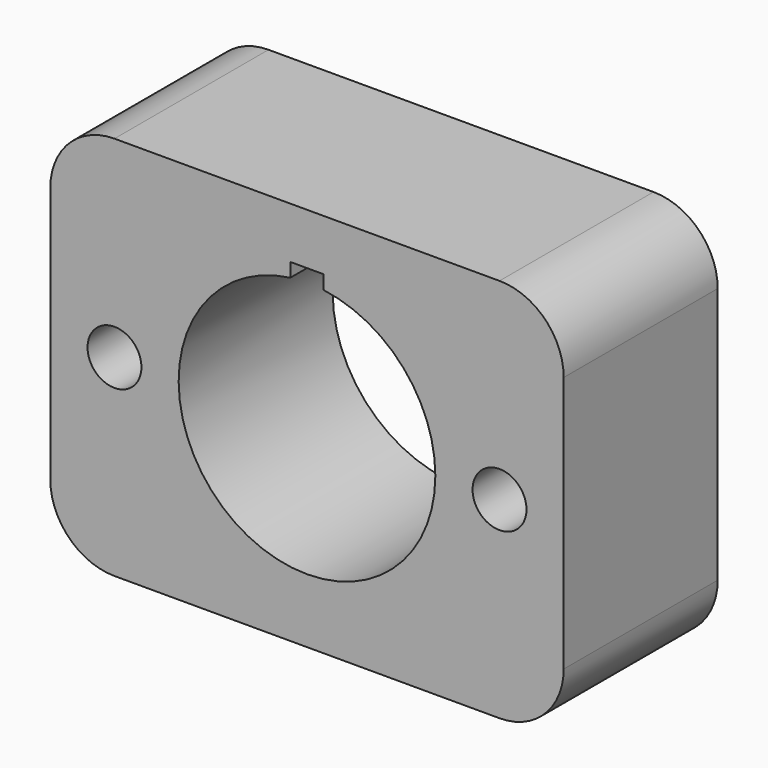
from build123d import *

# Parameters (mm, degrees)
F0_R     = 2.667
F1_DEPTH = 19.05
F2_DEPTH = 19.05


with BuildPart() as f1:
    # F0 (on Front) → F1 (new body)
    with BuildSketch(Plane.XZ):
        with BuildLine():
            Line((19.05, 19.05), (-19.05, 19.05))
            ThreePointArc((-19.05, 19.05), (-23.540128, 17.190128), (-25.4, 12.7))
            Line((-25.4, 12.7), (-25.4, -12.7))
            ThreePointArc((-25.4, -12.7), (-23.540128, -17.190128), (-19.05, -19.05))
            Line((-19.05, -19.05), (19.05, -19.05))
            ThreePointArc((19.05, -19.05), (23.540128, -17.190128), (25.4, -12.7))
            Line((25.4, -12.7), (25.4, 12.7))
            ThreePointArc((25.4, 12.7), (23.540128, 17.190128), (19.05, 19.05))
        make_face()
        with Locations((-19.05, 0)):
            Circle(F0_R, mode=Mode.SUBTRACT)
        with BuildLine():
            ThreePointArc((1.651, 12.592228), (9.546143, 8.376225), (12.7, 0))
            ThreePointArc((12.7, 0), (-8.376225, -9.546143), (-1.651, 12.592228))
            Line((-1.651, 12.592228), (-1.651, 13.97))
            Line((-1.651, 13.97), (1.651, 13.97))
            Line((1.651, 13.97), (1.651, 12.592228))
        make_face(mode=Mode.SUBTRACT)
        with Locations((19.05, 0)):
            Circle(F0_R, mode=Mode.SUBTRACT)
    extrude(amount=F1_DEPTH)

    # F0 (on Front) → F2 (join)
    with BuildSketch(Plane.XZ):
        with BuildLine():
            Line((19.05, 19.05), (-19.05, 19.05))
            ThreePointArc((-19.05, 19.05), (-23.540128, 17.190128), (-25.4, 12.7))
            Line((-25.4, 12.7), (-25.4, -12.7))
            ThreePointArc((-25.4, -12.7), (-23.540128, -17.190128), (-19.05, -19.05))
            Line((-19.05, -19.05), (19.05, -19.05))
            ThreePointArc((19.05, -19.05), (23.540128, -17.190128), (25.4, -12.7))
            Line((25.4, -12.7), (25.4, 12.7))
            ThreePointArc((25.4, 12.7), (23.540128, 17.190128), (19.05, 19.05))
        make_face()
        with Locations((-19.05, 0)):
            Circle(F0_R, mode=Mode.SUBTRACT)
        with BuildLine():
            ThreePointArc((1.651, 12.592228), (9.546143, 8.376225), (12.7, 0))
            ThreePointArc((12.7, 0), (-8.376225, -9.546143), (-1.651, 12.592228))
            Line((-1.651, 12.592228), (-1.651, 13.97))
            Line((-1.651, 13.97), (1.651, 13.97))
            Line((1.651, 13.97), (1.651, 12.592228))
        make_face(mode=Mode.SUBTRACT)
        with Locations((19.05, 0)):
            Circle(F0_R, mode=Mode.SUBTRACT)
    extrude(amount=F2_DEPTH)


solid = f1.part
